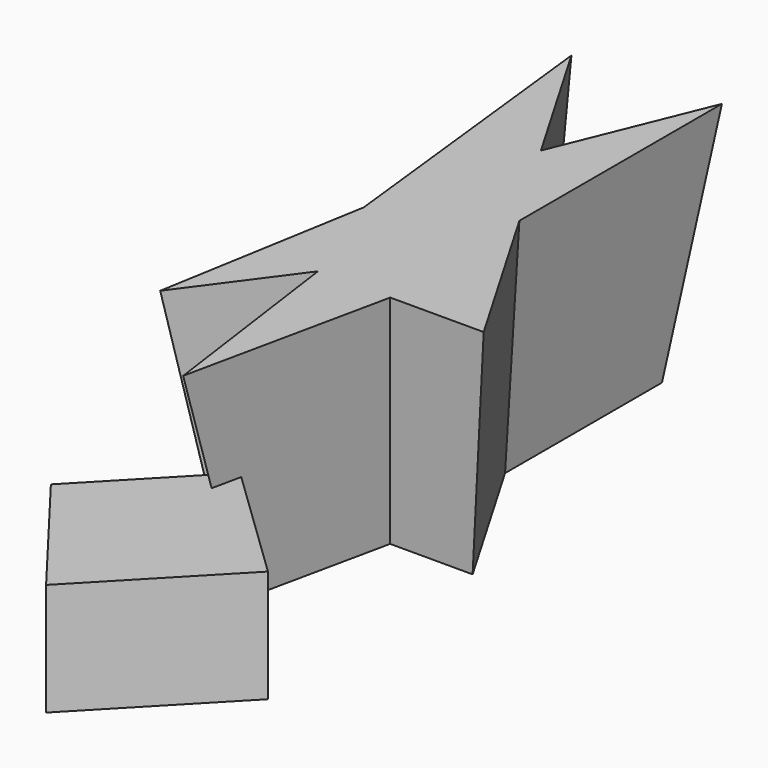
from build123d import *

# Parameters (mm, degrees)
F1_DEPTH = 50.8
F1_TAPER = -3
F3_DEPTH = 25.4


with BuildPart() as f1:
    # F0 (on Top) → F1 (new body)
    with BuildSketch(Plane.XY):
        Polygon((-5.1951231435, 37.5182926655), (0, 0), (7.1364506148, 33.4682352841), (25.7764216512, 33.4682352841), (6.0908943415, 67.2407448292), (6.0908943415, 111.572496593), (-4.6124211513, 85.2674916387), (-19.497255753, 110.8039281665), (-13.200096786, 54.7134391963), (-19.497255753, 18.1095562875), align=None)
    extrude(amount=F1_DEPTH, taper=F1_TAPER)

    # F2 (on Top) → F3 (join)
    with BuildSketch(Plane.XY):
        Polygon((27.3833926767, -26.3573322445), (0, 0), (-23.3508690358, -24.2598913356), (0, -54.8067286982), align=None)
    extrude(amount=F3_DEPTH)


solid = f1.part
